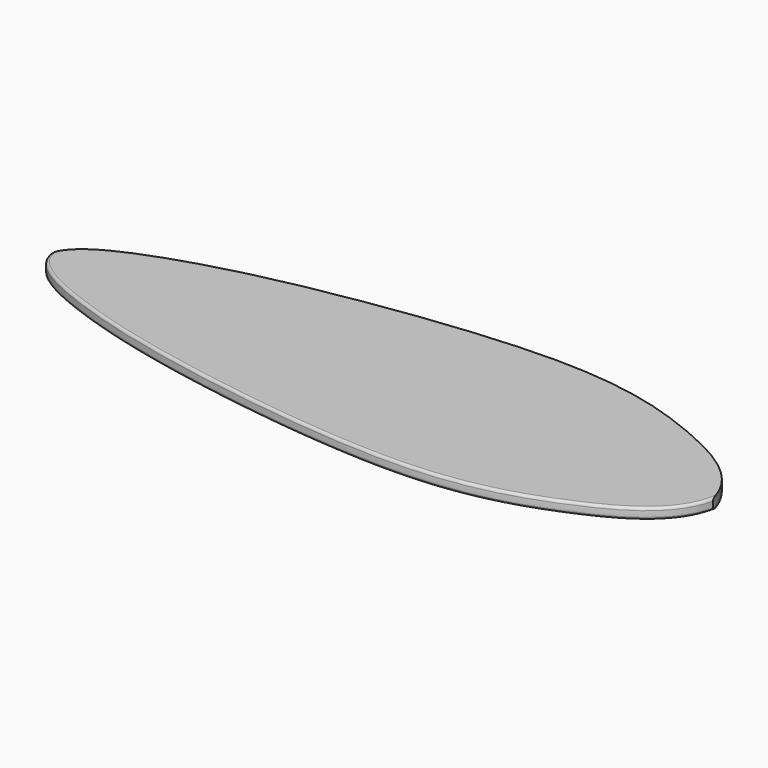
from build123d import *

# Parameters (mm, degrees)
PAD002_DEPTH = 25.4
FILLET_R     = 6.35
FILLET001_R  = 5.08


with BuildPart() as part:
    # Sketch003 → Pad002 (new body)
    with BuildSketch(Plane.XY):
        with BuildLine():
            add(Edge.make_bspline(
                [(-1143, 0), (-1133.960063, 47.220342), (-999.419108, 118.664751), (-655.351562, 209.348557), (-45.877184, 284.203379), (267.581783, 186.903179), (435.485995, 90.209124), (457.2, 0)],
                knots=[0, 0, 0, 0, 0.2, 0.4, 0.6, 0.8, 1, 1, 1, 1], degree=3))
            add(Edge.make_bspline(
                [(-1143, 0), (-1133.960063, -47.220342), (-999.419108, -118.664751), (-655.351562, -209.348557), (-45.877184, -284.203379), (267.581783, -186.903179), (435.485995, -90.209124), (457.2, 0)],
                knots=[0, 0, 0, 0, 0.2, 0.4, 0.6, 0.8, 1, 1, 1, 1], degree=3))
        make_face()
    extrude(amount=PAD002_DEPTH)

    # Fillet
    fillet_edges = [part.edges().sort_by_distance(p)[0] for p in [
        (-326.881297, -245.263191, 25.4),
    ]]
    fillet(fillet_edges, radius=FILLET_R)

    # Fillet001
    fillet001_edges = [part.edges().sort_by_distance(p)[0] for p in [
        (-326.881297, -245.263191, 0),
    ]]
    fillet(fillet001_edges, radius=FILLET001_R)


solid = part.part
